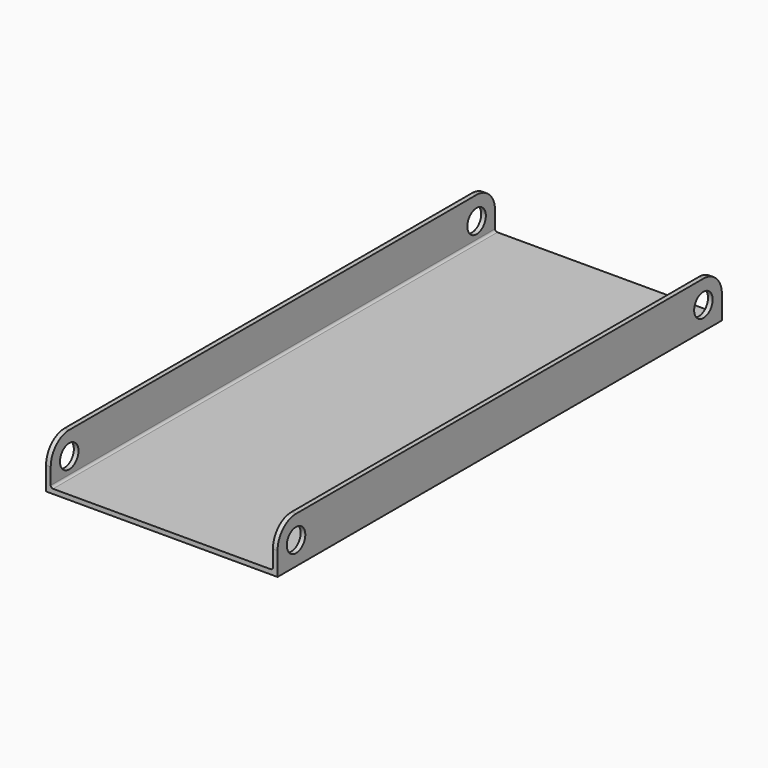
from build123d import *

# Parameters (mm, degrees)
F1_DEPTH = 152.4
F2_R     = 3.175
F3_DEPTH = 63.501


with BuildPart() as f1:
    # F0 (on Front) → F1 (new body)
    with BuildSketch(Plane.XZ):
        with BuildLine():
            Line((-63.5, 0), (0, 0))
            Line((0, 0), (0, 12.7))
            Line((0, 12.7), (-1.27, 12.7))
            Line((-1.27, 12.7), (-1.27, 1.905))
            ThreePointArc((-1.27, 1.905), (-1.455987, 1.455987), (-1.905, 1.27))
            Line((-1.905, 1.27), (-61.595, 1.27))
            ThreePointArc((-61.595, 1.27), (-62.044013, 1.455987), (-62.23, 1.905))
            Line((-62.23, 1.905), (-62.23, 12.7))
            Line((-62.23, 12.7), (-63.5, 12.7))
            Line((-63.5, 12.7), (-63.5, 0))
        make_face()
    extrude(amount=-F1_DEPTH)

    # F2 (on face) → F3 (cut, through all)
    with BuildSketch(Plane.YZ):
        with Locations((6.35, 6.35)):
            Circle(F2_R)
        with BuildLine():
            ThreePointArc((0, 6.35), (1.859872, 10.840128), (6.35, 12.7))
            Line((6.35, 12.7), (0, 12.7))
            Line((0, 12.7), (0, 6.35))
        make_face()
        with BuildLine():
            Line((152.4, 12.7), (146.05, 12.7))
            ThreePointArc((146.05, 12.7), (150.540128, 10.840128), (152.4, 6.35))
            Line((152.4, 6.35), (152.4, 12.7))
        make_face()
        with Locations((146.05, 6.35)):
            Circle(F2_R)
    extrude(amount=-F3_DEPTH, mode=Mode.SUBTRACT)


solid = f1.part
